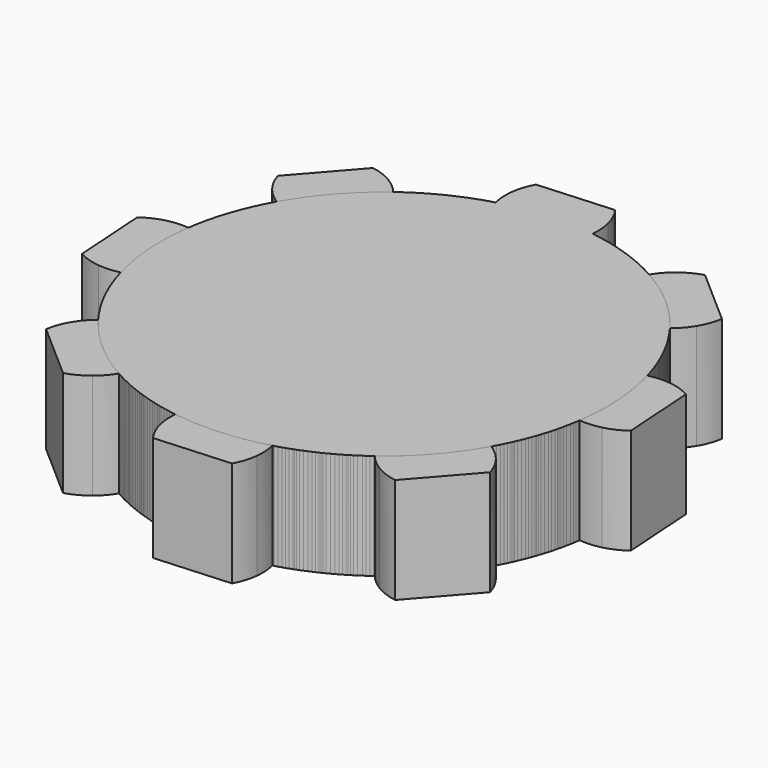
from build123d import *

# Parameters (mm, degrees)
F1_DEPTH = 1
F2_COUNT = 8
F3_DEPTH = 1


with BuildPart() as f1:
    # F0 (on Top) → F1 (new body)
    with BuildSketch(Plane.XY):
        with BuildLine():
            ThreePointArc((-7.414512, 3.408382), (-8.120079, -0.313473), (-4.727638, 1.372164))
            ThreePointArc((-4.727638, 1.372164), (-5.244159, 2.757115), (-6.541436, 3.465606))
            ThreePointArc((-6.541436, 3.465606), (-6.980966, 3.482635), (-7.414512, 3.408382))
        make_face()
        with BuildLine():
            ThreePointArc((-7.414512, 3.408382), (-6.980966, 3.482635), (-6.541436, 3.465606))
            ThreePointArc((-6.541436, 3.465606), (-6.539628, 3.565502), (-6.55514, 3.664203))
            ThreePointArc((-6.55514, 3.664203), (-6.592149, 3.768949), (-6.648609, 3.864623))
            Line((-6.648609, 3.864623), (-7.360338, 3.817974))
            ThreePointArc((-7.360338, 3.817974), (-7.403827, 3.715749), (-7.426847, 3.607069))
            ThreePointArc((-7.426847, 3.607069), (-7.429344, 3.507187), (-7.414512, 3.408382))
        make_face()
    extrude(amount=F1_DEPTH)


with BuildPart() as f2_1:
    # F2: instance of F1
    add(f1.part.rotate(Axis((-6.842638, 1.372164, 0), (0, 0, -1)), 1 * 360 / F2_COUNT))


with BuildPart() as f2_2:
    # F2: instance of F1
    add(f1.part.rotate(Axis((-6.842638, 1.372164, 0), (0, 0, -1)), 2 * 360 / F2_COUNT))


with BuildPart() as f2_3:
    # F2: instance of F1
    add(f1.part.rotate(Axis((-6.842638, 1.372164, 0), (0, 0, -1)), 3 * 360 / F2_COUNT))


with BuildPart() as f2_4:
    # F2: instance of F1
    add(f1.part.rotate(Axis((-6.842638, 1.372164, 0), (0, 0, -1)), 4 * 360 / F2_COUNT))


with BuildPart() as f2_5:
    # F2: instance of F1
    add(f1.part.rotate(Axis((-6.842638, 1.372164, 0), (0, 0, -1)), 5 * 360 / F2_COUNT))


with BuildPart() as f2_6:
    # F2: instance of F1
    add(f1.part.rotate(Axis((-6.842638, 1.372164, 0), (0, 0, -1)), 6 * 360 / F2_COUNT))


with BuildPart() as f2_7:
    # F2: instance of F1
    add(f1.part.rotate(Axis((-6.842638, 1.372164, 0), (0, 0, -1)), 7 * 360 / F2_COUNT))


with BuildPart() as f3:
    # F0 (on Top) → F3 (new body)
    with BuildSketch(Plane.XY):
        with BuildLine():
            ThreePointArc((-7.414512, 3.408382), (-8.120079, -0.313473), (-4.727638, 1.372164))
            ThreePointArc((-4.727638, 1.372164), (-5.244159, 2.757115), (-6.541436, 3.465606))
            ThreePointArc((-6.541436, 3.465606), (-6.980966, 3.482635), (-7.414512, 3.408382))
        make_face()
        with BuildLine():
            ThreePointArc((-7.414512, 3.408382), (-6.980966, 3.482635), (-6.541436, 3.465606))
            ThreePointArc((-6.541436, 3.465606), (-6.539628, 3.565502), (-6.55514, 3.664203))
            ThreePointArc((-6.55514, 3.664203), (-6.592149, 3.768949), (-6.648609, 3.864623))
            Line((-6.648609, 3.864623), (-7.360338, 3.817974))
            ThreePointArc((-7.360338, 3.817974), (-7.403827, 3.715749), (-7.426847, 3.607069))
            ThreePointArc((-7.426847, 3.607069), (-7.429344, 3.507187), (-7.414512, 3.408382))
        make_face()
    extrude(amount=F3_DEPTH)


solid = Compound([f1.part, f2_1.part, f2_2.part, f2_3.part, f2_4.part, f2_5.part, f2_6.part, f2_7.part, f3.part])
